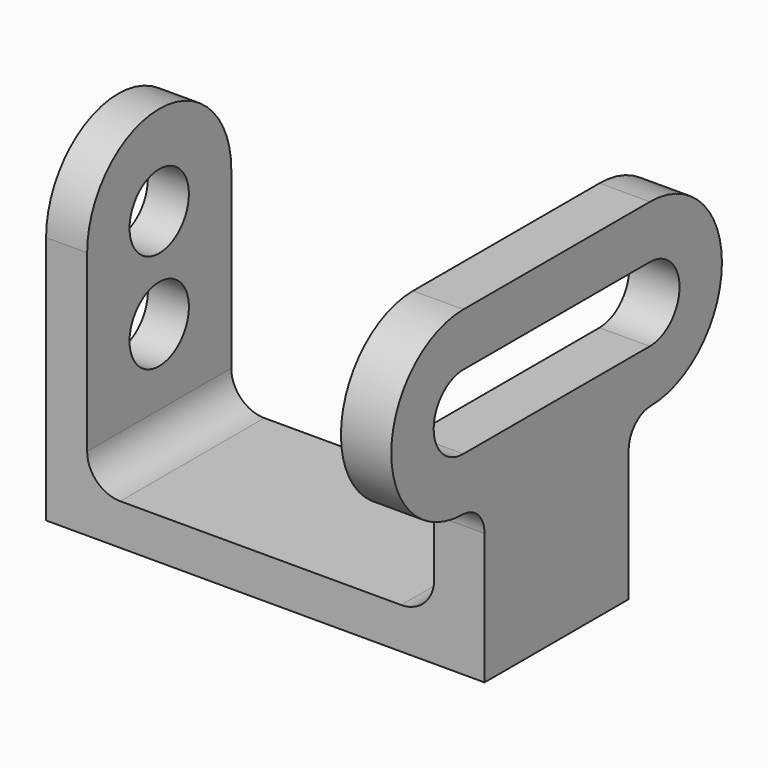
from build123d import *

# Parameters (mm, degrees)
F1_DEPTH  = 17.272
F3_DEPTH  = 7.874
F2_R      = 7.112
F4_DEPTH  = 74.422
F6_DEPTH  = 9.652
F7_W      = 34.544
F7_H      = 7.112
F8_DEPTH  = 9.652
F10_DEPTH = 9.652


with BuildPart() as f1:
    # F0 (on Front) → F1 (new body, symmetric)
    with BuildSketch(Plane.XZ):
        Polygon((-42.037, 47.752), (-42.037, 0), (42.037, 0), (42.037, 47.752), (32.385, 47.752), (32.385, 14.224), (32.385, 7.874), (26.035, 7.874), (-27.813, 7.874), (-34.163, 7.874), (-34.163, 14.224), (-34.163, 47.752), align=None)
        with BuildLine():
            ThreePointArc((-27.813, 7.874), (-32.303128, 9.733872), (-34.163, 14.224))
            Line((-34.163, 14.224), (-34.163, 7.874))
            Line((-34.163, 7.874), (-27.813, 7.874))
        make_face()
        with BuildLine():
            Line((32.385, 7.874), (32.385, 14.224))
            ThreePointArc((32.385, 14.224), (30.525128, 9.733872), (26.035, 7.874))
            Line((26.035, 7.874), (32.385, 7.874))
        make_face()
    extrude(amount=F1_DEPTH, both=True)

    # F2 (on face) → F3 (join, through all)
    with BuildSketch(Plane(origin=(-42.037, 0, 0), x_dir=(0, -1, 0), z_dir=(-1, 0, 0))):
        with BuildLine():
            ThreePointArc((-7.112, 47.752), (0, 54.864), (7.112, 47.752))
            Line((7.112, 47.752), (17.272, 47.752))
            ThreePointArc((17.272, 47.752), (0, 65.024), (-17.272, 47.752))
            Line((-17.272, 47.752), (-7.112, 47.752))
        make_face()
    extrude(amount=-F3_DEPTH)

    # F2 (on face) → F4 (cut, through all)
    with BuildSketch(Plane(origin=(-42.037, 0, 0), x_dir=(0, -1, 0), z_dir=(-1, 0, 0))):
        with Locations((0, 28.702)):
            Circle(F2_R)
        with Locations((0, 47.752)):
            Circle(F2_R)
    extrude(amount=-F4_DEPTH, mode=Mode.SUBTRACT)

    # F5 (on face) → F6 (join)
    with BuildSketch(Plane.YZ.offset(42.037)):
        with BuildLine():
            ThreePointArc((-22.352, 65.024), (-39.624, 47.752), (-22.352, 30.48))
            Line((-22.352, 30.48), (22.352, 30.48))
            ThreePointArc((22.352, 30.48), (39.624, 47.752), (22.352, 65.024))
            Line((22.352, 65.024), (-22.352, 65.024))
        make_face()
        with BuildLine():
            Line((22.352, 40.64), (-22.352, 40.64))
            ThreePointArc((-22.352, 40.64), (-29.464, 47.752), (-22.352, 54.864))
            Line((-22.352, 54.864), (22.352, 54.864))
            ThreePointArc((22.352, 54.864), (29.464, 47.752), (22.352, 40.64))
        make_face(mode=Mode.SUBTRACT)
    extrude(amount=-F6_DEPTH)

    # F7 (on face) → F8 (cut)
    with BuildSketch(Plane.YZ.offset(42.037)):
        with Locations((0, 44.196)):
            Rectangle(F7_W, F7_H)
    extrude(amount=-F8_DEPTH, mode=Mode.SUBTRACT)

    # F9 (on face) → F10 (join)
    with BuildSketch(Plane.YZ.offset(42.037)):
        with BuildLine():
            ThreePointArc((-22.606, 30.48), (-18.834292, 28.917708), (-17.272, 25.146))
            Line((-17.272, 25.146), (-17.272, 30.48))
            Line((-17.272, 30.48), (-22.352, 30.48))
            Line((-22.352, 30.48), (-22.606, 30.48))
        make_face()
        with BuildLine():
            Line((17.272, 30.48), (17.272, 25.146))
            ThreePointArc((17.272, 25.146), (18.834292, 28.917708), (22.606, 30.48))
            Line((22.606, 30.48), (22.352, 30.48))
            Line((22.352, 30.48), (17.272, 30.48))
        make_face()
    extrude(amount=-F10_DEPTH)


solid = f1.part
